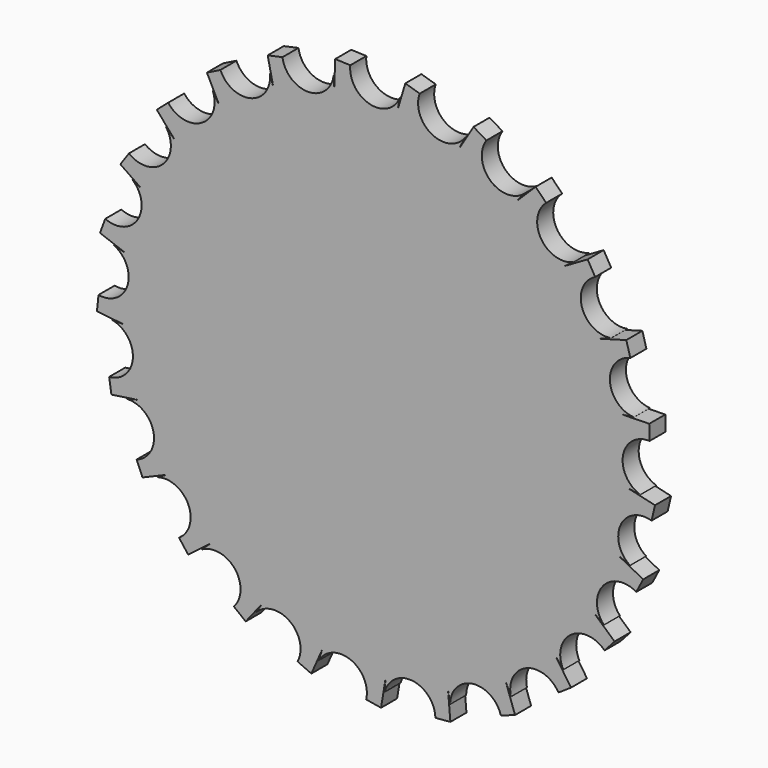
from build123d import *

# Parameters (mm, degrees)
F1_DEPTH = 2
F2_COUNT = 25
F3_DEPTH = 2
F0_R     = 1.3791907975
F4_R     = 24.1789897238
F5_DEPTH = 2


with BuildPart() as f1:
    # F0 (on Front) → F1 (new body)
    with BuildSketch(Plane.XZ):
        with BuildLine():
            ThreePointArc((-20.8778160203, 16.1155972919), (-21.1981117968, 12.751512491), (-24.5742007448, 12.6042734059))
            Line((-24.5742007448, 12.6042734059), (-25.4280168593, 11.3709859121))
            Line((-25.4280168593, 11.3709859121), (-22.1392502091, 9.0941429398))
            Line((-22.1392502091, 9.0941429398), (-18.7239857507, 14.0272929152))
            Line((-18.7239857507, 14.0272929152), (-20.8778160203, 16.1155972919))
        make_face()
    extrude(amount=F1_DEPTH)


with BuildPart() as f2_1:
    # F2: instance of F1
    add(f1.part.rotate(Axis((0, 0, 0), (0, -1, 0)), 1 * 360 / F2_COUNT))


with BuildPart() as f2_2:
    # F2: instance of F1
    add(f1.part.rotate(Axis((0, 0, 0), (0, -1, 0)), 2 * 360 / F2_COUNT))


with BuildPart() as f2_3:
    # F2: instance of F1
    add(f1.part.rotate(Axis((0, 0, 0), (0, -1, 0)), 3 * 360 / F2_COUNT))


with BuildPart() as f2_4:
    # F2: instance of F1
    add(f1.part.rotate(Axis((0, 0, 0), (0, -1, 0)), 4 * 360 / F2_COUNT))


with BuildPart() as f2_5:
    # F2: instance of F1
    add(f1.part.rotate(Axis((0, 0, 0), (0, -1, 0)), 5 * 360 / F2_COUNT))


with BuildPart() as f2_6:
    # F2: instance of F1
    add(f1.part.rotate(Axis((0, 0, 0), (0, -1, 0)), 6 * 360 / F2_COUNT))


with BuildPart() as f2_7:
    # F2: instance of F1
    add(f1.part.rotate(Axis((0, 0, 0), (0, -1, 0)), 7 * 360 / F2_COUNT))


with BuildPart() as f2_8:
    # F2: instance of F1
    add(f1.part.rotate(Axis((0, 0, 0), (0, -1, 0)), 8 * 360 / F2_COUNT))


with BuildPart() as f2_9:
    # F2: instance of F1
    add(f1.part.rotate(Axis((0, 0, 0), (0, -1, 0)), 9 * 360 / F2_COUNT))


with BuildPart() as f2_10:
    # F2: instance of F1
    add(f1.part.rotate(Axis((0, 0, 0), (0, -1, 0)), 10 * 360 / F2_COUNT))


with BuildPart() as f2_11:
    # F2: instance of F1
    add(f1.part.rotate(Axis((0, 0, 0), (0, -1, 0)), 11 * 360 / F2_COUNT))


with BuildPart() as f2_12:
    # F2: instance of F1
    add(f1.part.rotate(Axis((0, 0, 0), (0, -1, 0)), 12 * 360 / F2_COUNT))


with BuildPart() as f2_13:
    # F2: instance of F1
    add(f1.part.rotate(Axis((0, 0, 0), (0, -1, 0)), 13 * 360 / F2_COUNT))


with BuildPart() as f2_14:
    # F2: instance of F1
    add(f1.part.rotate(Axis((0, 0, 0), (0, -1, 0)), 14 * 360 / F2_COUNT))


with BuildPart() as f2_15:
    # F2: instance of F1
    add(f1.part.rotate(Axis((0, 0, 0), (0, -1, 0)), 15 * 360 / F2_COUNT))


with BuildPart() as f2_16:
    # F2: instance of F1
    add(f1.part.rotate(Axis((0, 0, 0), (0, -1, 0)), 16 * 360 / F2_COUNT))


with BuildPart() as f2_17:
    # F2: instance of F1
    add(f1.part.rotate(Axis((0, 0, 0), (0, -1, 0)), 17 * 360 / F2_COUNT))


with BuildPart() as f2_18:
    # F2: instance of F1
    add(f1.part.rotate(Axis((0, 0, 0), (0, -1, 0)), 18 * 360 / F2_COUNT))


with BuildPart() as f2_19:
    # F2: instance of F1
    add(f1.part.rotate(Axis((0, 0, 0), (0, -1, 0)), 19 * 360 / F2_COUNT))


with BuildPart() as f2_20:
    # F2: instance of F1
    add(f1.part.rotate(Axis((0, 0, 0), (0, -1, 0)), 20 * 360 / F2_COUNT))


with BuildPart() as f2_21:
    # F2: instance of F1
    add(f1.part.rotate(Axis((0, 0, 0), (0, -1, 0)), 21 * 360 / F2_COUNT))


with BuildPart() as f2_22:
    # F2: instance of F1
    add(f1.part.rotate(Axis((0, 0, 0), (0, -1, 0)), 22 * 360 / F2_COUNT))


with BuildPart() as f2_23:
    # F2: instance of F1
    add(f1.part.rotate(Axis((0, 0, 0), (0, -1, 0)), 23 * 360 / F2_COUNT))


with BuildPart() as f2_24:
    # F2: instance of F1
    add(f1.part.rotate(Axis((0, 0, 0), (0, -1, 0)), 24 * 360 / F2_COUNT))


with BuildPart() as f1_1:
    add(f1.part)

    add(f2_1.part)  # F3 merges F2_1

    add(f2_24.part)  # F3 merges F2_24
    # F0 (on Front) → F3 (join)
    with BuildSketch(Plane.XZ):
        with BuildLine():
            ThreePointArc((-20.8778160203, 16.1155972919), (-21.1981117968, 12.751512491), (-24.5742007448, 12.6042734059))
            Line((-24.5742007448, 12.6042734059), (-25.4280168593, 11.3709859121))
            Line((-25.4280168593, 11.3709859121), (-22.1392502091, 9.0941429398))
            Line((-22.1392502091, 9.0941429398), (-18.7239857507, 14.0272929152))
            Line((-18.7239857507, 14.0272929152), (-20.8778160203, 16.1155972919))
        make_face()
    extrude(amount=F3_DEPTH)

    add(f2_2.part)  # F5 merges F2_2

    add(f2_3.part)  # F5 merges F2_3

    add(f2_4.part)  # F5 merges F2_4

    add(f2_5.part)  # F5 merges F2_5

    add(f2_6.part)  # F5 merges F2_6

    add(f2_7.part)  # F5 merges F2_7

    add(f2_8.part)  # F5 merges F2_8

    add(f2_9.part)  # F5 merges F2_9

    add(f2_10.part)  # F5 merges F2_10

    add(f2_11.part)  # F5 merges F2_11

    add(f2_12.part)  # F5 merges F2_12

    add(f2_13.part)  # F5 merges F2_13

    add(f2_14.part)  # F5 merges F2_14

    add(f2_15.part)  # F5 merges F2_15

    add(f2_16.part)  # F5 merges F2_16

    add(f2_17.part)  # F5 merges F2_17

    add(f2_18.part)  # F5 merges F2_18

    add(f2_19.part)  # F5 merges F2_19

    add(f2_20.part)  # F5 merges F2_20

    add(f2_21.part)  # F5 merges F2_21

    add(f2_22.part)  # F5 merges F2_22

    add(f2_23.part)  # F5 merges F2_23


with BuildPart() as f3:
    # F0 (on Front) → F3, piece 2 (new body)
    with BuildSketch(Plane.XZ):
        Circle(F0_R)
    extrude(amount=F3_DEPTH)


with BuildPart() as f1_2:
    add(f1_1.part)

    add(f3.part)  # F5 merges F3
    # F4 (on Front) → F5 (join)
    with BuildSketch(Plane.XZ):
        Circle(F4_R)
    extrude(amount=F5_DEPTH)


solid = f1_2.part
